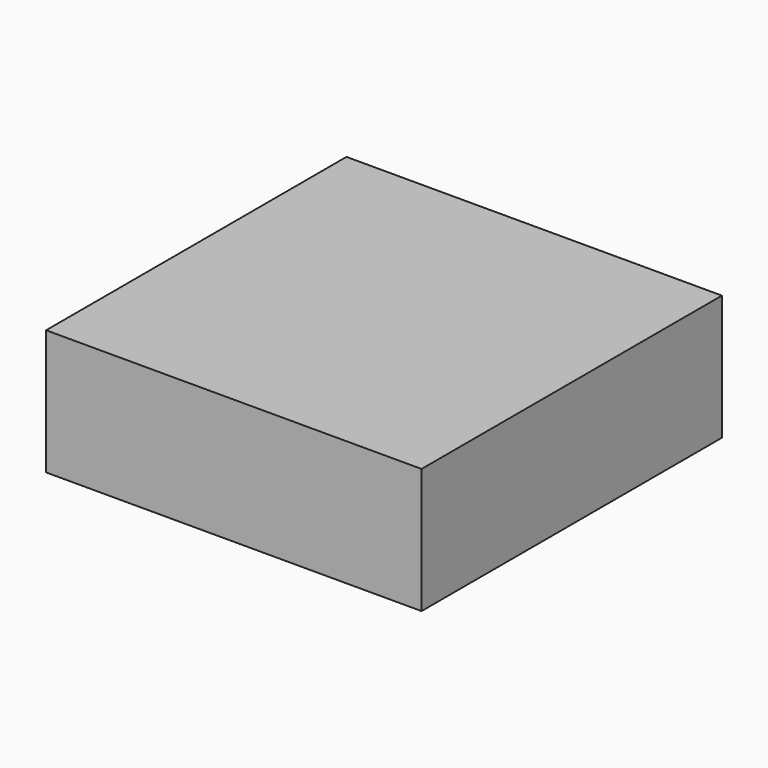
from build123d import *

# Parameters (mm, degrees)
SKETCH_W      = 150
SKETCH_H      = 150
EXTRUDE_DEPTH = 50


with BuildPart() as part:
    # Sketch → Extrude (new body)
    with BuildSketch(Plane.XY):
        Rectangle(SKETCH_W, SKETCH_H)
    extrude(amount=EXTRUDE_DEPTH)


solid = part.part
